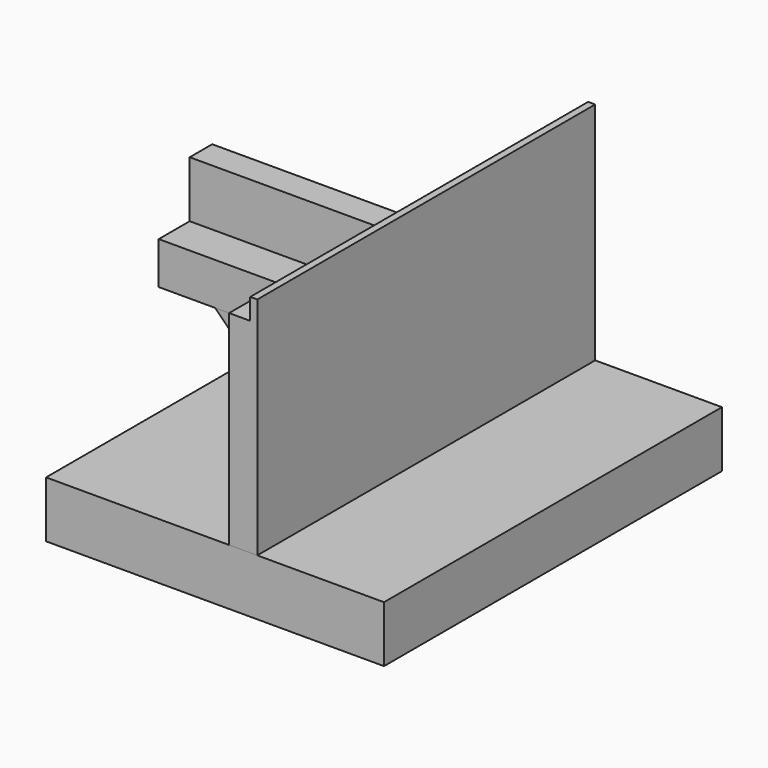
from build123d import *

# Parameters (mm, degrees)
F1_DEPTH = 381
F0_W     = 203.2
F0_H     = 203.2
F2_DEPTH = 101.6
F4_DEPTH = 762
F0_H_2   = 406.4
F5_DEPTH = 1524
F6_DEPTH = 1524


with BuildPart() as f1:
    # F0 (on Front) → F1 (new body, symmetric)
    with BuildSketch(Plane.XZ):
        Polygon((-1260.146816, 101.6), (162.253184, 101.6), (162.253184, 203.2), (162.253184, 406.4), (-40.946816, 406.4), (-447.346816, 406.4), (-853.746816, 406.4), (-1260.146816, 406.4), align=None)
    extrude(amount=F1_DEPTH, both=True)


with BuildPart() as f2:
    # F0 (on Front) → F2 (new body, symmetric)
    with BuildSketch(Plane.XZ):
        with Locations((-1158.546816, 711.2)):
            Rectangle(F0_W, F0_H)
        with Locations((60.653184, 508)):
            Rectangle(F0_W, F0_H)
        Polygon((-447.346816, 406.4), (-40.946816, 406.4), (-40.946816, 609.6), (-244.146816, 609.6), (-447.346816, 609.6), align=None)
        Polygon((-853.746816, 609.6), (-853.746816, 406.4), (-447.346816, 406.4), (-447.346816, 609.6), (-650.546816, 609.6), align=None)
        Polygon((-1260.146816, 609.6), (-1260.146816, 406.4), (-853.746816, 406.4), (-853.746816, 609.6), (-1056.946816, 609.6), align=None)
        Polygon((-1056.946816, 609.6), (-853.746816, 609.6), (-650.546816, 609.6), (-650.546816, 812.8), (-1056.946816, 812.8), align=None)
        Polygon((-244.146816, 609.6), (-244.146816, 812.8), (-650.546816, 812.8), (-650.546816, 609.6), (-447.346816, 609.6), align=None)
        Polygon((-40.946816, 609.6), (162.253184, 609.6), (162.253184, 812.8), (-244.146816, 812.8), (-244.146816, 609.6), align=None)
    extrude(amount=F2_DEPTH, both=True)


with BuildPart() as f4:
    # F3 (on face) → F4 (new body)
    with BuildSketch(Plane.XZ.offset(381)):
        Polygon((162.253184, -609.6), (162.253184, 101.6), (-853.746816, 101.6), (-142.546816, -609.6), align=None)
    extrude(amount=-F4_DEPTH)


with BuildPart() as f5:
    # F0 (on Front) → F5 (new body, symmetric)
    with BuildSketch(Plane.XZ):
        Polygon((162.253184, 812.8), (365.453184, 812.8), (365.453184, 1016), (314.653184, 1016), (314.653184, 863.6), (162.253184, 863.6), align=None)
        with Locations((263.853184, 711.2)):
            Rectangle(F0_W, F0_H)
        with Locations((263.853184, 508)):
            Rectangle(F0_W, F0_H)
        with Locations((263.853184, 304.8)):
            Rectangle(F0_W, F0_H)
        Polygon((162.253184, 101.6), (162.253184, 0), (365.453184, 0), (365.453184, 203.2), (162.253184, 203.2), align=None)
        with Locations((263.853184, -101.6)):
            Rectangle(F0_W, F0_H)
        with Locations((263.853184, -406.4)):
            Rectangle(F0_W, F0_H_2)
    extrude(amount=F5_DEPTH, both=True)


with BuildPart() as f6:
    # F0 (on Front) → F6 (new body, symmetric)
    with BuildSketch(Plane.XZ):
        Polygon((162.253184, -609.6), (-1158.546816, -609.6), (-1158.546816, -1016), (1279.853184, -1016), (1279.853184, -609.6), (365.453184, -609.6), align=None)
    extrude(amount=F6_DEPTH, both=True)


solid = Compound([f1.part, f2.part, f4.part, f5.part, f6.part])
